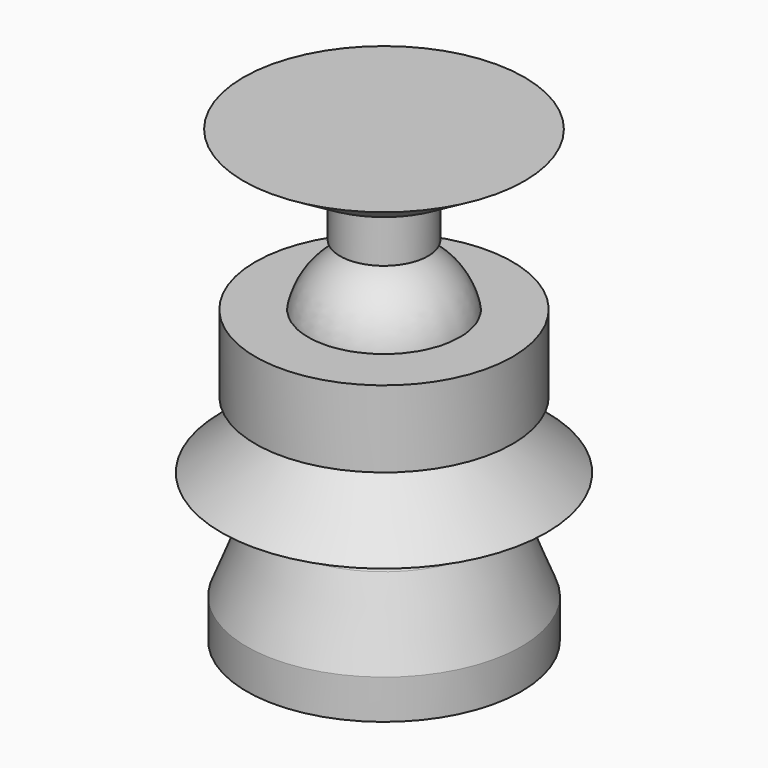
from build123d import *

# Parameters (mm, degrees)
F2_W = 103.2192185521
F2_H = 74.1351991892


with BuildPart() as f1:
    # F0 (on Front) → F1 (revolve)
    with BuildSketch(Plane.XZ):
        Polygon((0, 347.2892359732), (0, 300), (42.3736387746, 301.6190393926), (42.3736387746, 348.9082753658), align=None)
    revolve(axis=Axis((0, 0, 150), (0, 0, 1)))


with BuildPart() as f1b:
    # F0 (on Front) → F1, piece 2 (revolve)
    with BuildSketch(Plane.XZ):
        with BuildLine():
            Line((0, 300), (0, 0))
            Line((0, 0), (25.4610180855, 0))
            Line((25.4610180855, 0), (25.4610180855, -20.8038110286))
            Line((25.4610180855, -20.8038110286), (38.0935408175, -39.3315218389))
            Line((38.0935408175, -39.3315218389), (74.3068084121, -39.3315218389))
            Line((74.3068084121, -39.3315218389), (74.3068084121, 228.4781336784))
            ThreePointArc((74.3068084121, 228.4781336784), (52.3676761076, 280.045757093), (0, 300))
        make_face()
    revolve(axis=Axis((0, 0, 150), (0, 0, 1)))


with BuildPart() as f3:
    # F2 (on Front) → F3 (revolve)
    with BuildSketch(Plane.XZ):
        with Locations((51.6096092761, 37.0675995946)):
            Rectangle(F2_W, F2_H)
        Polygon((103.2192185521, 0), (0, 0), (0, -37.9580743611), (47.1725836396, -17.8746897727), (64.9206861854, -17.8746897727), (78.9323449135, -12.7370813861), (94.3451747298, -12.7370813861), (103.2192185521, -37.9580743611), (132.1766376495, -37.9580743611), (132.1766376495, 0), align=None)
        Polygon((0, 300.1899719238), (0, 74.1351991892), (103.2192185521, 74.1351991892), align=None)
        Polygon((103.2192185521, 74.1351991892), (103.2192185521, 0), (132.1766376495, 0), align=None)
    revolve(axis=Axis((0, 0, 187.1625855565), (0, 0, 1)))


with BuildPart() as f5:
    # F4 (on Front) → F5 (revolve)
    with BuildSketch(Plane.XZ):
        Polygon((-156.4635336399, 104.4937968254), (0, 104.4937968254), (0, 242.742151022), (-123.7696558237, 242.742151022), (-123.7696558237, 168.9474284649), (-70.5253481865, 183.8931888342), (-70.5253481865, 217.5211757421), (-25.220984593, 217.5211757421), align=None)
    revolve(axis=Axis((0, 0, 121.371075511), (0, 0, 1)))


with BuildPart() as f7:
    # F6 (on Front) → F7 (revolve)
    with BuildSketch(Plane.XZ):
        Polygon((0, 395.3514397144), (0, 349.0667641163), (76.2245506048, 360.479414463), (135.189935565, 395.3514397144), align=None)
    revolve(axis=Axis((0, 0, 197.6757198572), (0, 0, 1)))


solid = Compound([f1.part, f1b.part, f3.part, f5.part, f7.part])
